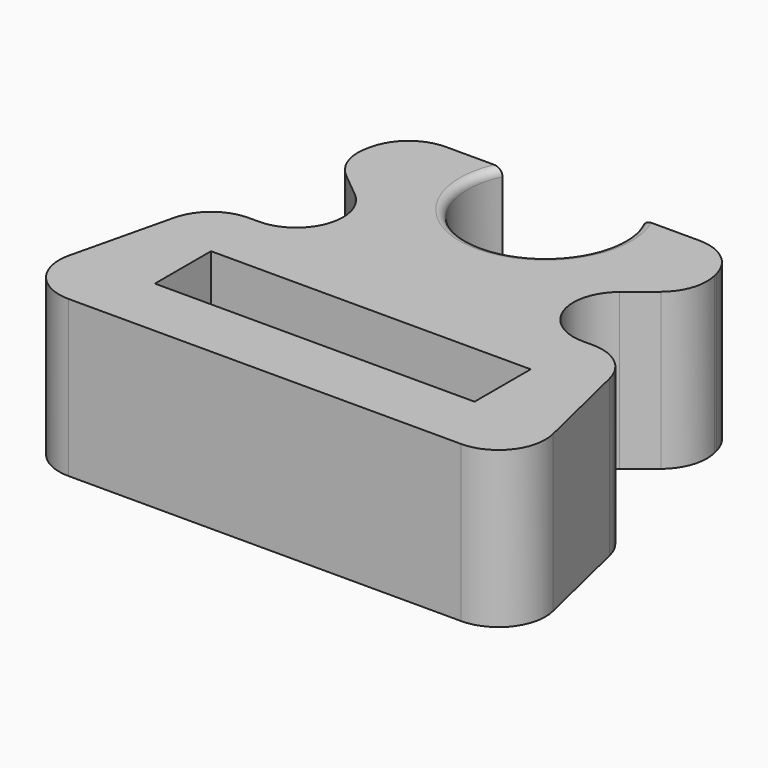
from build123d import *

# Parameters (mm, degrees)
F0_W     = 20.5
F0_H     = 4.5
F1_DEPTH = 5
F2_DEPTH = 5
F3_R     = 3
F4_R     = 0.5
F5_DEPTH = 3


with BuildPart() as f1:
    # F0 (on Top) → F1 (new body)
    with BuildSketch(Plane.XY):
        with BuildLine():
            ThreePointArc((4.5, 2.1794494718), (0, -5), (-4.5, 2.1794494718))
            Line((-4.5, 2.1794494718), (-10.5, 2.1794494718))
            Line((-10.5, 2.1794494718), (-11.5394689808, -2.1748499468))
            Line((-11.5394689808, -2.1748499468), (-2, -10))
            Line((-2, -10), (-13.4075078933, -10))
            Line((-13.4075078933, -10), (-16.3915383908, -22.5))
            Line((-16.3915383908, -22.5), (16.3915383908, -22.5))
            Line((16.3915383908, -22.5), (13.4075078933, -10))
            Line((13.4075078933, -10), (2, -10))
            Line((2, -10), (11.5394689808, -2.1748499468))
            Line((11.5394689808, -2.1748499468), (10.5, 2.1794494718))
            Line((10.5, 2.1794494718), (4.5, 2.1794494718))
        make_face()
        with Locations((0, -16.25)):
            Rectangle(F0_W, F0_H, mode=Mode.SUBTRACT)
        with BuildLine():
            Line((4.5, 2.1794494718), (-4.5, 2.1794494718))
            ThreePointArc((-4.5, 2.1794494718), (0, -5), (4.5, 2.1794494718))
        make_face()
    extrude(amount=-F1_DEPTH)

    # F0 (on Top) → F2 (join)
    with BuildSketch(Plane.XY):
        with BuildLine():
            ThreePointArc((4.5, 2.1794494718), (0, -5), (-4.5, 2.1794494718))
            Line((-4.5, 2.1794494718), (-10.5, 2.1794494718))
            Line((-10.5, 2.1794494718), (-11.5394689808, -2.1748499468))
            Line((-11.5394689808, -2.1748499468), (-2, -10))
            Line((-2, -10), (-13.4075078933, -10))
            Line((-13.4075078933, -10), (-16.3915383908, -22.5))
            Line((-16.3915383908, -22.5), (16.3915383908, -22.5))
            Line((16.3915383908, -22.5), (13.4075078933, -10))
            Line((13.4075078933, -10), (2, -10))
            Line((2, -10), (11.5394689808, -2.1748499468))
            Line((11.5394689808, -2.1748499468), (10.5, 2.1794494718))
            Line((10.5, 2.1794494718), (4.5, 2.1794494718))
        make_face()
        with Locations((0, -16.25)):
            Rectangle(F0_W, F0_H, mode=Mode.SUBTRACT)
    extrude(amount=F2_DEPTH)

    # F3
    f3_edges = [f1.edges().sort_by_distance(p)[0] for p in [
        (-16.391538, -22.5, 0),
        (16.391538, -22.5, 0),
        (-10.5, 2.179449, 0),
        (10.5, 2.179449, 0),
        (-2, -10, 0),
        (-13.407508, -10, 0),
        (-11.539469, -2.17485, 0),
        (11.539469, -2.17485, 0),
        (13.407508, -10, 0),
        (2, -10, 0),
    ]]
    fillet(f3_edges, radius=F3_R)

    # F4
    f4_edges = [f1.edges().sort_by_distance(p)[0] for p in [
        (0, -5, 5),
    ]]
    fillet(f4_edges, radius=F4_R)

    # F5 (cut): a face of the model
    f5_faces = [f1.faces().sort_by_distance(p)[0] for p in [
        (0, -1.0065762803, 0),
    ]]
    extrude(f5_faces, amount=-F5_DEPTH, mode=Mode.SUBTRACT)


solid = f1.part
